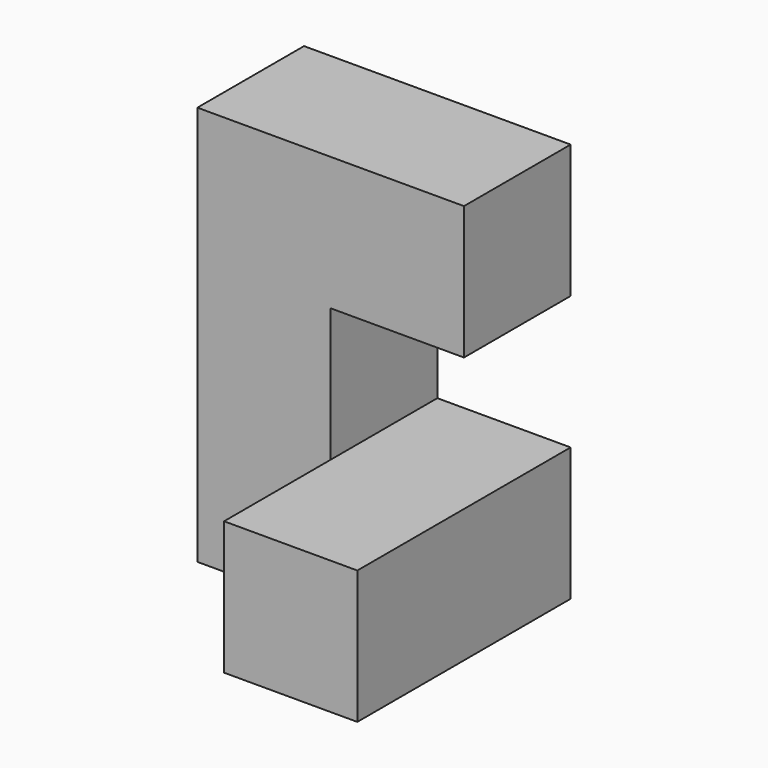
from build123d import *

# Parameters (mm, degrees)
F0_W     = 10
F0_H     = 10
F1_DEPTH = 30
F2_W     = 10
F2_H     = 10
F3_DEPTH = 10
F4_W     = 10
F4_H     = 10
F5_DEPTH = 10
F6_W     = 10
F6_H     = 10
F7_DEPTH = 10


with BuildPart() as f1:
    # F0 (on Top) → F1 (new body)
    with BuildSketch(Plane.XY):
        with Locations((5, 5)):
            Rectangle(F0_W, F0_H)
    extrude(amount=F1_DEPTH)

    # F2 (on face) → F3 (join)
    with BuildSketch(Plane.YZ.offset(10)):
        with Locations((5, 5)):
            Rectangle(F2_W, F2_H)
    extrude(amount=F3_DEPTH)

    # F4 (on face) → F5 (join)
    with BuildSketch(Plane.XZ):
        with Locations((15, 5)):
            Rectangle(F4_W, F4_H)
    extrude(amount=F5_DEPTH)

    # F6 (on face) → F7 (join)
    with BuildSketch(Plane.YZ.offset(10)):
        with Locations((5, 25)):
            Rectangle(F6_W, F6_H)
    extrude(amount=F7_DEPTH)


solid = f1.part
